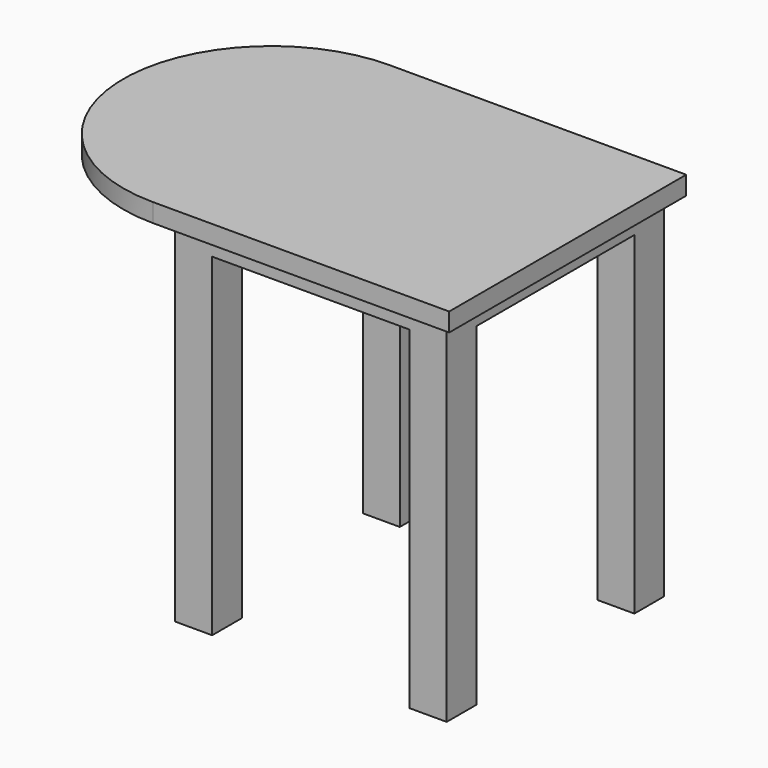
from build123d import *

# Parameters (mm, degrees)
F0_W     = 609.6
F0_H     = 609.6
F0_W_2   = 76.2
F0_H_2   = 76.2
F0_W_3   = 406.4
F0_H_3   = 406.4
F1_DEPTH = 38.1
F2_DEPTH = 76.2
F3_DEPTH = 762
F6_DEPTH = 38.1


with BuildPart() as f1:
    # F0 (on Top) → F1 (new body)
    with BuildSketch(Plane.XY):
        Rectangle(F0_W, F0_H)
        Polygon((203.2, 279.4), (279.4, 279.4), (279.4, 203.2), (279.4, -203.2), (279.4, -279.4), (203.2, -279.4), (-203.2, -279.4), (-279.4, -279.4), (-279.4, -203.2), (-279.4, 203.2), (-279.4, 279.4), (-203.2, 279.4), align=None, mode=Mode.SUBTRACT)
        with Locations((-241.3, 241.3)):
            Rectangle(F0_W_2, F0_H_2)
        with Locations((0, 241.3)):
            Rectangle(F0_W_3, F0_H_2)
        with Locations((241.3, 241.3)):
            Rectangle(F0_W_2, F0_H_2)
        with Locations((241.3, 0)):
            Rectangle(F0_W_2, F0_H_3)
        with Locations((241.3, -241.3)):
            Rectangle(F0_W_2, F0_H_2)
        with Locations((0, -241.3)):
            Rectangle(F0_W_3, F0_H_2)
        with Locations((-241.3, -241.3)):
            Rectangle(F0_W_2, F0_H_2)
        with Locations((-241.3, 0)):
            Rectangle(F0_W_2, F0_H_3)
        Rectangle(F0_W_3, F0_H_3)
    extrude(amount=-F1_DEPTH)

    # F0 (on Top) → F2 (join)
    with BuildSketch(Plane.XY):
        with Locations((-241.3, -241.3)):
            Rectangle(F0_W_2, F0_H_2)
        with Locations((-241.3, 0)):
            Rectangle(F0_W_2, F0_H_3)
        with Locations((0, -241.3)):
            Rectangle(F0_W_3, F0_H_2)
        with Locations((241.3, -241.3)):
            Rectangle(F0_W_2, F0_H_2)
        with Locations((241.3, 0)):
            Rectangle(F0_W_2, F0_H_3)
        with Locations((241.3, 241.3)):
            Rectangle(F0_W_2, F0_H_2)
        with Locations((0, 241.3)):
            Rectangle(F0_W_3, F0_H_2)
        with Locations((-241.3, 241.3)):
            Rectangle(F0_W_2, F0_H_2)
    extrude(amount=-F2_DEPTH)

    # F0 (on Top) → F3 (join)
    with BuildSketch(Plane.XY):
        with Locations((-241.3, 241.3)):
            Rectangle(F0_W_2, F0_H_2)
        with Locations((-241.3, -241.3)):
            Rectangle(F0_W_2, F0_H_2)
        with Locations((241.3, -241.3)):
            Rectangle(F0_W_2, F0_H_2)
        with Locations((241.3, 241.3)):
            Rectangle(F0_W_2, F0_H_2)
    extrude(amount=-F3_DEPTH)

    # F5 (on face) → F6 (join)
    with BuildSketch(Plane.XY):
        with BuildLine():
            ThreePointArc((-304.8, 304.8), (-609.6, 0), (-304.8, -304.8))
            Line((-304.8, -304.8), (-304.8, 304.8))
        make_face()
    extrude(amount=-F6_DEPTH)


solid = f1.part
